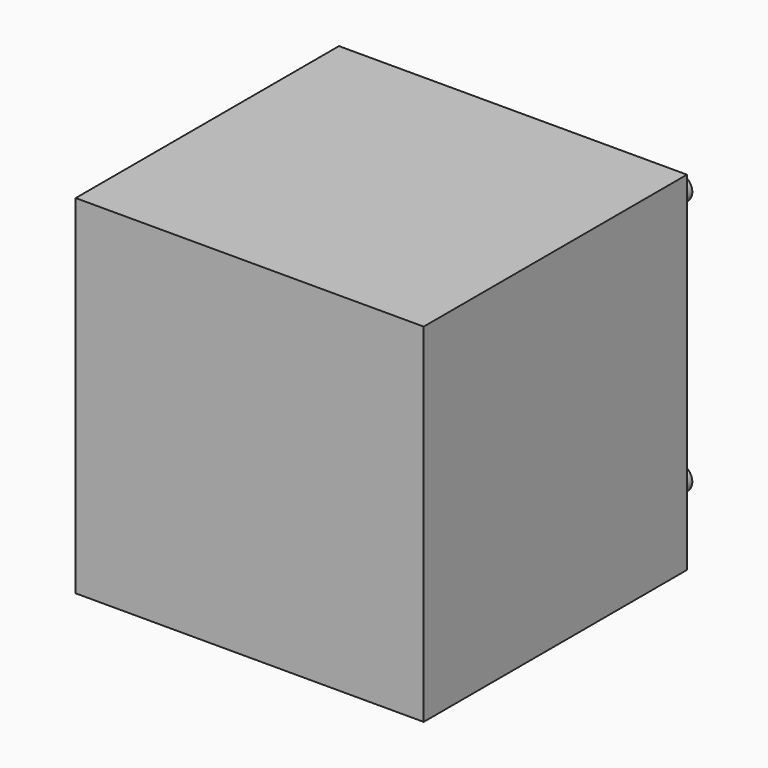
from build123d import *

# Parameters (mm, degrees)
CYLINDER236_R             = 1.5
CYLINDER236_DEPTH         = 6
CYLINDER234_R             = 1.5
CYLINDER234_DEPTH         = 6
CYLINDER232_R             = 11.2
CYLINDER232_DEPTH         = 6
CYLINDER237_R             = 2.5
CYLINDER237_DEPTH         = 21
CYLINDER235_R             = 1.5
CYLINDER235_DEPTH         = 6
CYLINDER233_R             = 1.5
CYLINDER233_DEPTH         = 6
BOX091_W                  = 40
BOX091_H                  = 42.3
BOX091_DEPTH              = 42.3
FUSION096_PLACEMENT_ANGLE = 90


with BuildPart() as cylinder236:
    # Cylinder236 → Cylinder236 (new body)
    with BuildSketch(Plane(origin=(40, 5.65, 36.665), x_dir=(0, 0, -1), z_dir=(1, 0, 0))):
        Circle(CYLINDER236_R)
    extrude(amount=CYLINDER236_DEPTH)


with BuildPart() as cylinder234:
    # Cylinder234 → Cylinder234 (new body)
    with BuildSketch(Plane(origin=(40, 36.65, 36.65), x_dir=(0, 0, -1), z_dir=(1, 0, 0))):
        Circle(CYLINDER234_R)
    extrude(amount=CYLINDER234_DEPTH)


with BuildPart() as cylinder232:
    # Cylinder232 → Cylinder232 (new body)
    with BuildSketch(Plane(origin=(40, 21.15, 21.15), x_dir=(0, 0, -1), z_dir=(1, 0, 0))):
        Circle(CYLINDER232_R)
    extrude(amount=CYLINDER232_DEPTH)


with BuildPart() as cylinder237:
    # Cylinder237 → Cylinder237 (new body)
    with BuildSketch(Plane(origin=(40, 21.15, 21.15), x_dir=(0, 0, -1), z_dir=(1, 0, 0))):
        Circle(CYLINDER237_R)
    extrude(amount=CYLINDER237_DEPTH)


with BuildPart() as cylinder235:
    # Cylinder235 → Cylinder235 (new body)
    with BuildSketch(Plane(origin=(40, 5.65, 5.65), x_dir=(0, 0, -1), z_dir=(1, 0, 0))):
        Circle(CYLINDER235_R)
    extrude(amount=CYLINDER235_DEPTH)


with BuildPart() as cylinder233:
    # Cylinder233 → Cylinder233 (new body)
    with BuildSketch(Plane(origin=(40, 36.65, 5.65), x_dir=(0, 0, -1), z_dir=(1, 0, 0))):
        Circle(CYLINDER233_R)
    extrude(amount=CYLINDER233_DEPTH)


with BuildPart() as fusion096:
    # Box091 → Box091 (new body)
    with BuildSketch(Plane.XY):
        with Locations((20, 21.15)):
            Rectangle(BOX091_W, BOX091_H)
    extrude(amount=BOX091_DEPTH)

    # Fusion096: union Cylinder236, Cylinder234, Cylinder232, Cylinder237, Cylinder235, Cylinder233
    add(cylinder236.part)
    add(cylinder234.part)
    add(cylinder232.part)
    add(cylinder237.part)
    add(cylinder235.part)
    add(cylinder233.part)


with BuildPart() as fusion096_1:
    # Fusion096 placement: moved
    add(fusion096.part.moved(Location((48, -33.5, 11))).rotate(Axis((48, -33.5, 11), (0, 0, 1)), FUSION096_PLACEMENT_ANGLE))


solid = fusion096_1.part
